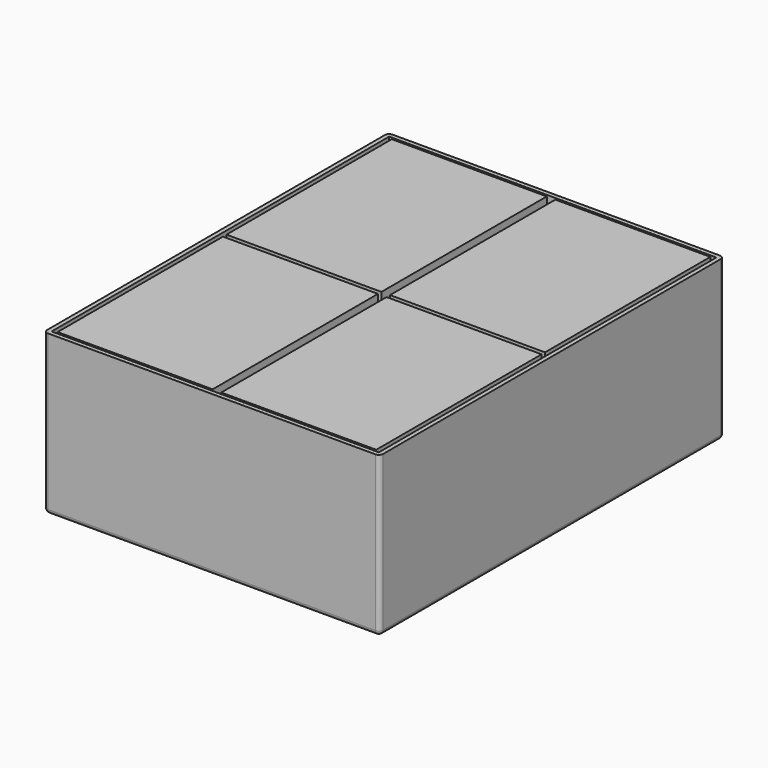
from build123d import *

# Parameters (mm, degrees)
SKETCH_W     = 380
SKETCH_H     = 490
PAD_DEPTH    = 180
THICKNESS_T  = 5
SKETCH001_W  = 180
SKETCH001_H  = 240
PAD001_DEPTH = 180
PAD002_DEPTH = 10


with BuildPart() as part:
    # Sketch → Pad (new body)
    with BuildSketch(Plane.XY):
        Rectangle(SKETCH_W, SKETCH_H)
    extrude(amount=PAD_DEPTH)

    # Thickness
    thickness_openings = [part.faces().sort_by_distance(p)[0] for p in [
        (0, 0, 180),
    ]]
    offset(amount=THICKNESS_T, openings=thickness_openings)

    # Sketch001 (on Face5 of Thickness) → Pad001 (join)
    with BuildSketch(Plane.XY):
        with Locations((-95, 122.5)):
            Rectangle(SKETCH001_W, SKETCH001_H)
        with Locations((95, 122.5)):
            Rectangle(SKETCH001_W, SKETCH001_H)
        with Locations((-95, -122.5)):
            Rectangle(SKETCH001_W, SKETCH001_H)
        with Locations((95, -122.5)):
            Rectangle(SKETCH001_W, SKETCH001_H)
    extrude(amount=PAD001_DEPTH)

    # Sketch001 (on Face5 of Thickness) → Pad002 (join)
    with BuildSketch(Plane.XY):
        with Locations((-95, 122.5)):
            Rectangle(SKETCH001_W, SKETCH001_H)
        with Locations((95, 122.5)):
            Rectangle(SKETCH001_W, SKETCH001_H)
        with Locations((-95, -122.5)):
            Rectangle(SKETCH001_W, SKETCH001_H)
        with Locations((95, -122.5)):
            Rectangle(SKETCH001_W, SKETCH001_H)
    extrude(amount=PAD002_DEPTH)


solid = part.part
